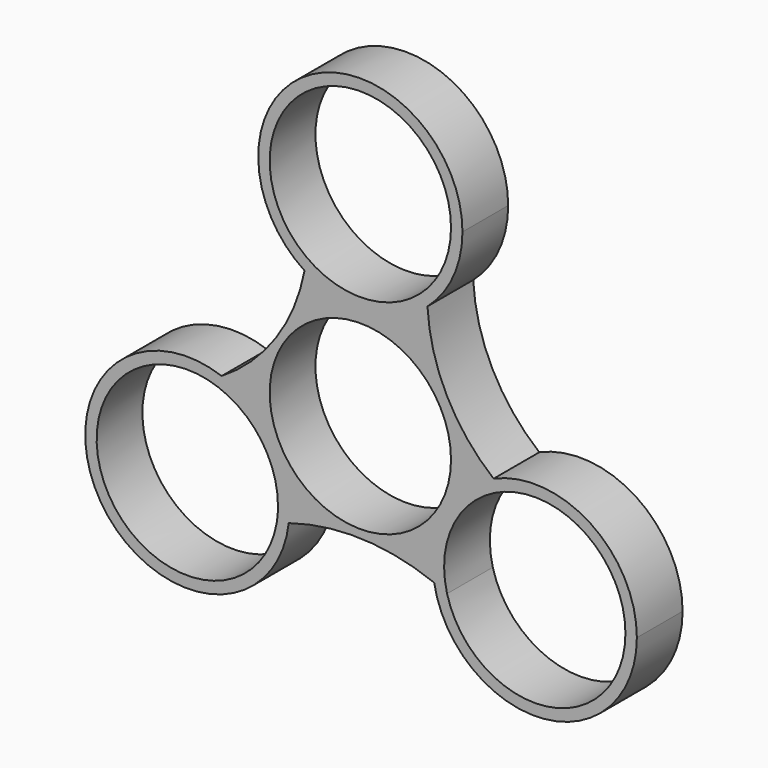
from build123d import *

# Parameters (mm, degrees)
F0_R     = 11.1
F1_DEPTH = 7


with BuildPart() as f1:
    # F0 (on Front) → F1 (new body)
    with BuildSketch(Plane.XZ):
        with BuildLine():
            ThreePointArc((-18.7133919886, -1.0689288006), (-12.5068783043, -4.9703570819), (-10.0860695319, -11.8900131163))
            ThreePointArc((-10.0860695319, -11.8900131163), (-10.1280566678, -12.8545604179), (-10.2537004323, -13.8118106783))
            ThreePointArc((-10.2537004323, -13.8118106783), (-9.5134212482, -13.5438687691), (-8.7655944524, -13.2977768744))
            ThreePointArc((-8.7655944524, -13.2977768744), (-8.7059665978, -12.5950171963), (-8.6860695319, -11.8900131163))
            ThreePointArc((-8.6860695319, -11.8900131163), (-10.9689356484, -4.6886121965), (-16.983697565, -0.117584741))
            ThreePointArc((-16.983697565, -0.117584741), (-17.837868909, -0.6126671921), (-18.7133919886, -1.0689288006))
        make_face()
        with BuildLine():
            ThreePointArc((-10.2537004323, -13.8118106783), (-30.4337221266, -18.0293063563), (-18.7133919886, -1.0689288006))
            ThreePointArc((-18.7133919886, -1.0689288006), (-17.837868909, -0.6126671921), (-16.983697565, -0.117584741))
            ThreePointArc((-16.983697565, -0.117584741), (-31.793101499, -18.5037014102), (-8.7655944524, -13.2977768744))
            ThreePointArc((-8.7655944524, -13.2977768744), (-9.5134212482, -13.5438687691), (-10.2537004323, -13.8118106783))
        make_face()
        with BuildLine():
            ThreePointArc((-6.8316961774, 14.5320523817), (-10.357703694, 6.1331094067), (-16.983697565, -0.117584741))
            ThreePointArc((-16.983697565, -0.117584741), (-10.9689356484, -4.6886121965), (-8.6860695319, -11.8900131163))
            ThreePointArc((-8.6860695319, -11.8900131163), (-8.7059665978, -12.5950171963), (-8.7655944524, -13.2977768744))
            ThreePointArc((-8.7655944524, -13.2977768744), (0.190425578, -12.0913517601), (9.0385431072, -13.928897006))
            ThreePointArc((9.0385431072, -13.928897006), (10.3366864456, -5.8889197434), (16.3118360026, -0.355024345))
            ThreePointArc((16.3118360026, -0.355024345), (10.5746266445, 6.7555175383), (8.2207724019, 15.5835834248))
            ThreePointArc((8.2207724019, 15.5835834248), (0.8710984864, 12.5303894437), (-6.8316961774, 14.5320523817))
        make_face()
        Circle(F0_R, mode=Mode.SUBTRACT)
        with BuildLine():
            ThreePointArc((12.5, 25), (-5.9520499739, 35.9919562003), (-6.8316961774, 14.5320523817))
            ThreePointArc((-6.8316961774, 14.5320523817), (0.8710984864, 12.5303894437), (8.2207724019, 15.5835834248))
            ThreePointArc((8.2207724019, 15.5835834248), (11.3800187834, 19.8284264978), (12.5, 25))
        make_face()
        with Locations((0, 25)):
            Circle(F0_R, mode=Mode.SUBTRACT)
        with BuildLine():
            ThreePointArc((16.3118360026, -0.355024345), (10.3366864456, -5.8889197434), (9.0385431072, -13.928897006))
            ThreePointArc((9.0385431072, -13.928897006), (9.8335251038, -14.255797823), (10.6176196868, -14.6080139557))
            ThreePointArc((10.6176196868, -14.6080139557), (11.5378035991, -6.6120001997), (17.6196201019, -1.339952927))
            ThreePointArc((17.6196201019, -1.339952927), (16.9565628734, -0.8596581225), (16.3118360026, -0.355024345))
        make_face()
        with BuildLine():
            ThreePointArc((10.6176196868, -14.6080139557), (9.8335251038, -14.255797823), (9.0385431072, -13.928897006))
            ThreePointArc((9.0385431072, -13.928897006), (22.426711831, -24.2466237864), (33.8546537387, -11.7926809791))
            ThreePointArc((33.8546537387, -11.7926809791), (28.1816142007, -1.3216442181), (16.3118360026, -0.355024345))
            ThreePointArc((16.3118360026, -0.355024345), (16.9565628734, -0.8596581225), (17.6196201019, -1.339952927))
            ThreePointArc((17.6196201019, -1.339952927), (27.7480537196, -2.7188484545), (32.4546537387, -11.7926809791))
            ThreePointArc((32.4546537387, -11.7926809791), (22.7739708322, -22.801565527), (10.6176196868, -14.6080139557))
        make_face()
    extrude(amount=F1_DEPTH)


solid = f1.part
